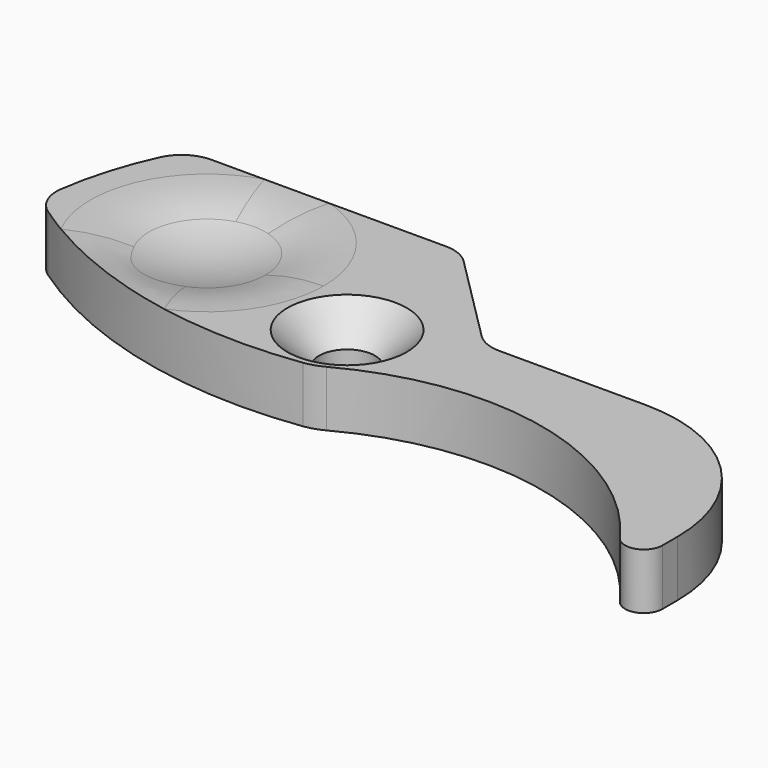
from build123d import *

# Parameters (mm, degrees)
PAD003_DEPTH = 3
FILLET_R     = 10


with BuildPart() as sphere:
    # Sphere → Sphere (revolve)
    with BuildSketch(Plane(origin=(8, 27, 12), x_dir=(1, 0, 0), z_dir=(0, -1, 0))):
        with BuildLine():
            ThreePointArc((0, -10), (10, 0), (0, 10))
            Line((0, 10), (0, -10))
        make_face()
    revolve(axis=Axis((8, 27, 12), (0, 0, 1)))


with BuildPart() as clone_of_countersunk002:
    # Sketch007 → Revolution001 (revolve)
    with BuildSketch(Plane.YZ):
        Polygon((3.2, 0), (1.5, -1.7), (1.5, -10), (0, -10), (0, 0), align=None)
    revolve(axis=Axis((0, 0, 0), (0, 0, 1)))


with BuildPart() as clone_of_countersunk002_1:
    # Clone005 placement: moved
    add(clone_of_countersunk002.part.moved(Location((17.5, 24.5, 3))))


with BuildPart() as obj1:
    # Sketch → Pad003 (new body)
    with BuildSketch(Plane.XY):
        with BuildLine():
            ThreePointArc((17.903941, 21.027319), (18.426814, 21.146754), (18.920064, 21.357384))
            ThreePointArc((38.188772, 16.91527), (29.390013, 22.760914), (18.920064, 21.357384))
            ThreePointArc((38.188772, 16.91527), (39.30722, 16.548362), (40, 17.499993))
            Line((40, 18.499993), (40, 17.499993))
            ThreePointArc((40, 18.499993), (37.510407, 24.510406), (31.499995, 27))
            Line((23.656854, 27), (31.499995, 27))
            ThreePointArc((22.242641, 27.585786), (22.891487, 27.152241), (23.656854, 27))
            Line((22.242641, 27.585786), (17.414214, 32.414214))
            ThreePointArc((17.414214, 32.414214), (16.765367, 32.847759), (16, 33))
            Line((16, 33), (3.428753, 33))
            ThreePointArc((3.428753, 33), (2.351121, 32.684847), (1.613108, 31.83871))
            ThreePointArc((1.613108, 31.83871), (0.720961, 29.471304), (0.179492, 27))
            ThreePointArc((0.179492, 27), (0.325697, 25.914862), (1.021382, 25.069332))
            ThreePointArc((1.021382, 25.069332), (9.0844, 21.468416), (17.903941, 21.027319))
        make_face()
    extrude(amount=PAD003_DEPTH)

    # Cut003: cut Clone of Countersunk002
    add(clone_of_countersunk002_1.part, mode=Mode.SUBTRACT)

    # Cut004: cut Sphere
    add(sphere.part, mode=Mode.SUBTRACT)

    # Fillet
    fillet_edges = [obj1.edges().sort_by_distance(p)[0] for p in [
        (3.641101, 27, 3),
    ]]
    fillet(fillet_edges, radius=FILLET_R)


solid = obj1.part
